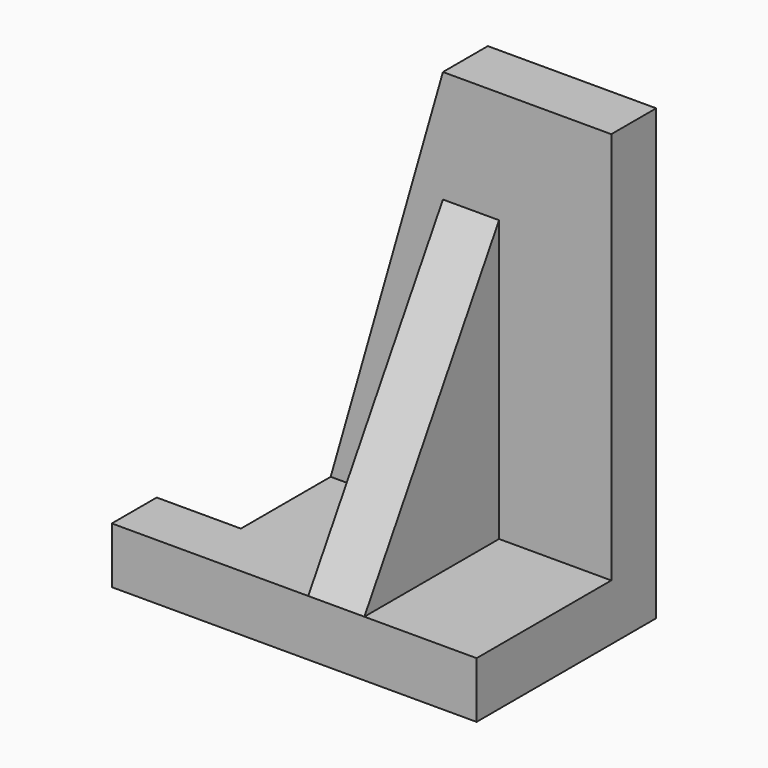
from build123d import *

# Parameters (mm, degrees)
F0_W     = 190.5
F0_H     = 127
F1_DEPTH = 127
F2_W     = 381
F2_H     = 889
F3_DEPTH = 127
F4_W     = 127
F4_H     = 635
F5_DEPTH = 381
F7_DEPTH = 381.001


with BuildPart() as f1:
    # F0 (on Top) → F1 (new body)
    with BuildSketch(Plane.XY):
        Polygon((79.417029, 127), (79.417029, 0), (714.417029, 0), (714.417029, 508), (79.417029, 508), align=None)
        with Locations((-15.832971, 63.5)):
            Rectangle(F0_W, F0_H)
    extrude(amount=F1_DEPTH)

    # F2 (on face) → F3 (join)
    with BuildSketch(Plane(origin=(0, 508, 0), x_dir=(-1, 0, 0), z_dir=(0, 1, 0))):
        with Locations((-523.917029, 571.5)):
            Rectangle(F2_W, F2_H)
        Polygon((-333.417029, 1016), (-333.417029, 127), (-79.417029, 127), align=None)
    extrude(amount=-F3_DEPTH)

    # F4 (on face) → F5 (join, through all)
    with BuildSketch(Plane.XZ.offset(-381)):
        with Locations((396.917029, 444.5)):
            Rectangle(F4_W, F4_H)
    extrude(amount=F5_DEPTH)

    # F6 (on face) → F7 (cut, through all)
    with BuildSketch(Plane(origin=(333.417029, 0, 0), x_dir=(0, -1, 0), z_dir=(-1, 0, 0))):
        Polygon((0, 762), (-381, 762), (0, 127), align=None)
    extrude(amount=-F7_DEPTH, mode=Mode.SUBTRACT)


solid = f1.part
